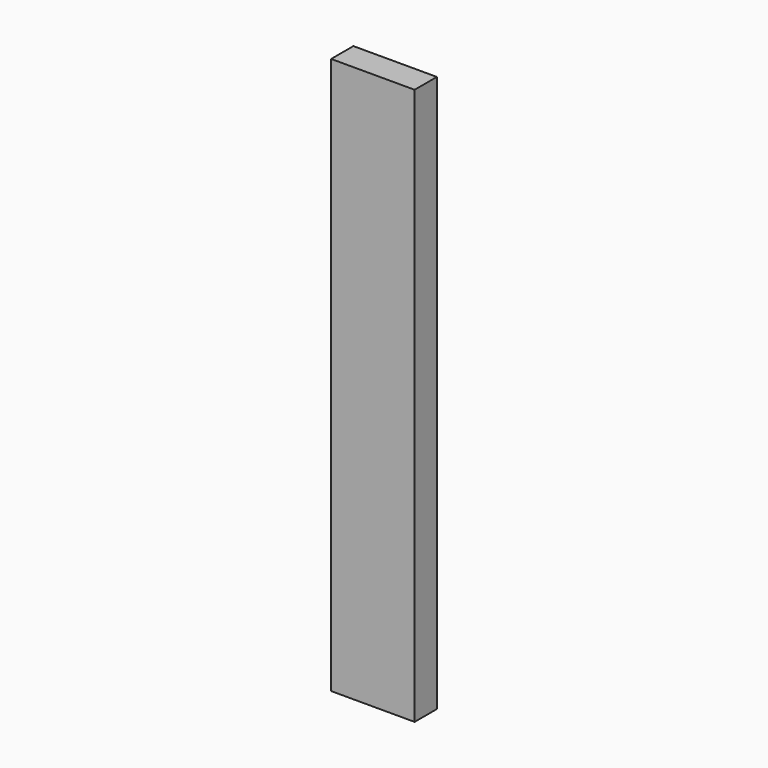
from build123d import *

# Parameters (mm, degrees)
SKETCH_W  = 30
SKETCH_H  = 200
PAD_DEPTH = 10


with BuildPart() as part:
    # Sketch → Pad (new body)
    with BuildSketch(Plane.XZ):
        Rectangle(SKETCH_W, SKETCH_H)
    extrude(amount=PAD_DEPTH)


solid = part.part
